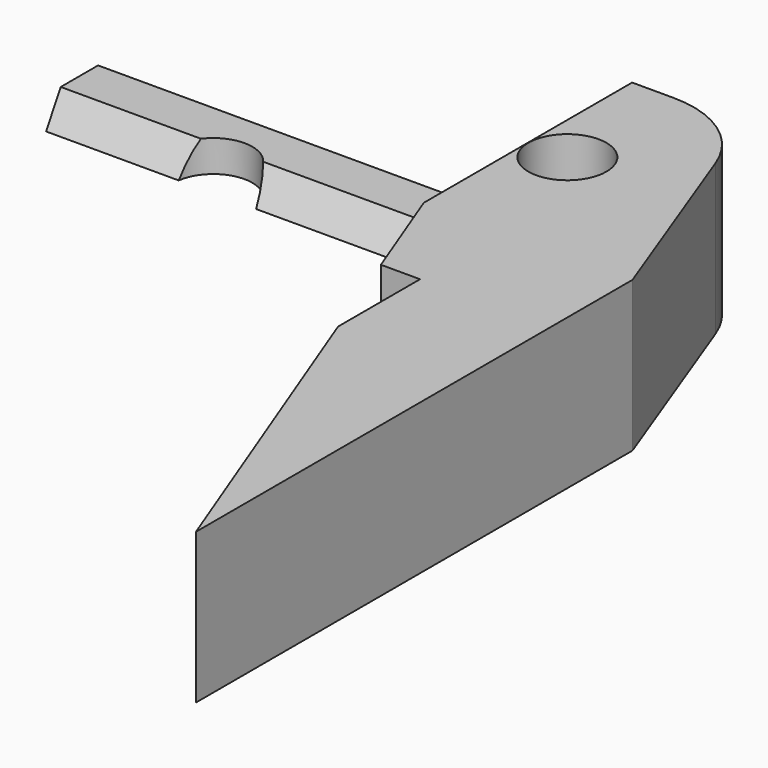
from build123d import *

# Parameters (mm, degrees)
F0_R     = 2.25
F1_DEPTH = 4.330125
F2_R     = 5.8
F4_DEPTH = 28
F5_R     = 2.25
F6_DEPTH = 25


with BuildPart() as f1:
    # F0 (on Top) → F1 (new body, symmetric)
    with BuildSketch(Plane.XY):
        Polygon((-7.5, 47.100404), (0, 27.485359), (0, 58.922307), (-5.601237, 73.922307), (-12.020218, 73.922307), (-12.020218, 58.922307), (-9.755767, 53), (-7.5, 53), align=None)
        with Locations((-9.75, 66.422307)):
            Circle(F0_R, mode=Mode.SUBTRACT)
    extrude(amount=F1_DEPTH, both=True)

    # F2
    f2_edges = [f1.edges().sort_by_distance(p)[0] for p in [
        (-5.601237, 73.922307, 0),
    ]]
    fillet(f2_edges, radius=F2_R)

    # F3 (on face) → F4 (join)
    with BuildSketch(Plane(origin=(-12.020218, 0, 0), x_dir=(0, -1, 0), z_dir=(-1, 0, 0))):
        Polygon((-70.466645, -2.501664), (-71.522307, -4.330125), (-66.722307, -4.330125), (-67.777969, -2.501664), align=None)
    extrude(amount=F4_DEPTH)

    # F5 (on face) → F6 (cut)
    with BuildSketch(Plane.XY.offset(4.330125)):
        with Locations((-30.15, 66.422307)):
            Circle(F5_R)
    extrude(amount=-F6_DEPTH, mode=Mode.SUBTRACT)


solid = f1.part
